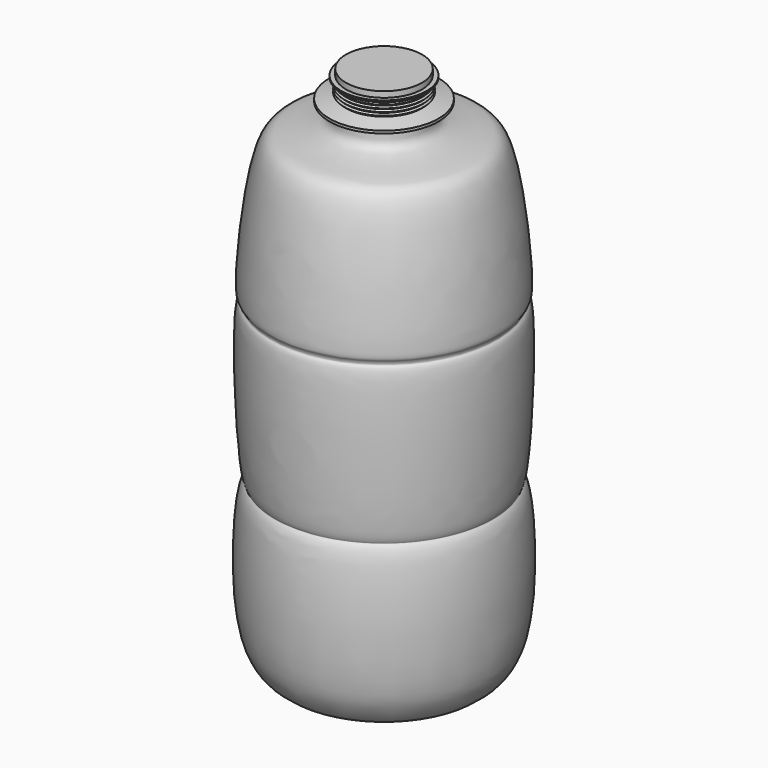
from build123d import *


with BuildPart() as f1:
    # F0 (on Right) → F1 (revolve)
    with BuildSketch(Plane.YZ):
        with BuildLine():
            add(Edge.make_bspline(
                [(0, -75.900092721), (-2.3143715547, -76.4671169479), (-7.3413634346, -77.6987369006), (-12.846346057, -65.2205555243), (-34.0475107149, -80.1104675485), (-64.5970660451, -75.124074819), (-73.1376716005, -30.3087767741), (-69.8812500921, 23.4120327555), (-64.7354133116, 26.0824221107), (-69.1280434337, 27.565279061), (-72.8180933655, 121.546530211), (-67.1232586577, 121.2683019458), (-68.4766263366, 124.722442016), (-71.3850645077, 125.1026069017), (-64.5778235412, 205.1679433602), (-50.1537501022, 210.6982406105), (-25.4826158388, 212.4348366408), (-25.5644305957, 220.2391991031), (-25.5962070078, 223.2703715563)],
                knots=[0, 0, 0, 0, 0.0383431421, 0.0832842347, 0.1529660563, 0.2281923377, 0.3289458905, 0.4373009538, 0.4618252213, 0.4852623869, 0.6289021621, 0.6537186294, 0.6773122712, 0.6983154593, 0.8279940311, 0.88774719, 0.9564016117, 1, 1, 1, 1], degree=3))
            Line((0, -75.900092721), (0, 243.632286787))
            Line((0, 243.632286787), (-22.9404773563, 243.632286787))
            Line((-22.9404773563, 243.632286787), (-22.9404773563, 240.1032745838))
            Line((-22.9404773563, 240.1032745838), (-25.5962070078, 240.1032745838))
            Line((-25.5962070078, 240.1032745838), (-25.5962070078, 239.0555888414))
            Line((-25.5962070078, 239.0555888414), (-22.9404773563, 239.0555888414))
            Line((-22.9404773563, 239.0555888414), (-22.9404773563, 237.8976500283))
            Line((-22.9404773563, 237.8976500283), (-23.9054456146, 236.9326853918))
            Line((-23.9054456146, 236.9326853918), (-22.9404773563, 235.9677135117))
            Line((-22.9404773563, 235.9677135117), (-23.9054456146, 235.0027488752))
            Line((-23.9054456146, 235.0027488752), (-22.9404773563, 234.0377769951))
            Line((-22.9404773563, 234.0377769951), (-23.9054456146, 233.0728123586))
            Line((-23.9054456146, 233.0728123586), (-22.9404773563, 232.1078404784))
            Line((-22.9404773563, 232.1078404784), (-23.9330101758, 231.1153113842))
            Line((-23.9330101758, 231.1153113842), (-22.9404773563, 230.1227748394))
            Line((-22.9404773563, 230.1227748394), (-32.8658260405, 227.8620004654))
            Line((-32.8658260405, 227.8620004654), (-32.8658260405, 226.3180613518))
            Line((-32.8658260405, 226.3180613518), (-22.9404773563, 226.3180613518))
            Line((-22.9404773563, 226.3180613518), (-22.9404773563, 224.1675704718))
            Line((-22.9404773563, 224.1675704718), (-25.5962070078, 223.2703715563))
        make_face()
    revolve(axis=Axis((0, 0, 83.866097033), (0, 0, -1)))


solid = f1.part
